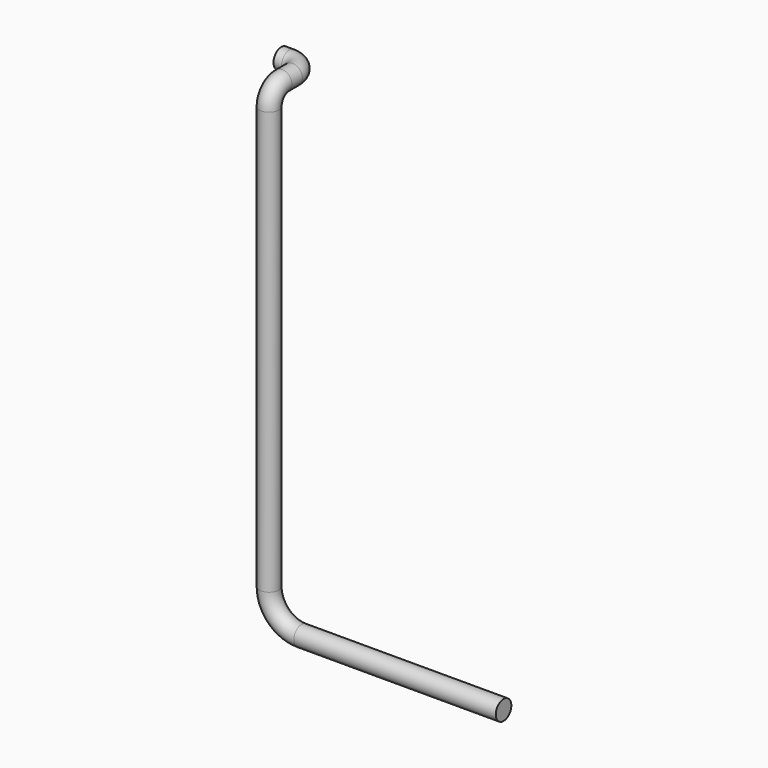
from build123d import *

# Parameters (mm, degrees)
F5_R = 6


with BuildPart() as f6:
    # F6: sweep along a path in F0, F4, F2
    with BuildLine(Plane.XY) as f6_path:
        Line((0, 0), (5, 0))
        ThreePointArc((5, 0), (12.0710678119, -2.9289321881), (15, -10))
        Line((15, -10), (15, -18.124))
    with BuildLine(Plane.YZ.offset(15)) as f6_path_2:
        ThreePointArc((-18.124, 0), (-25.1950678119, -2.9289321881), (-28.124, -10))
        Line((-28.124, -10), (-28.124, -20))
    with BuildLine(Plane.XZ.offset(28.124)) as f6_path_3:
        Line((15, -20), (15, -270.5))
        ThreePointArc((15, -270.5), (20.8578643763, -284.6421356237), (35, -290.5))
        Line((35, -290.5), (159.5, -290.5))
    # F5 (on Right) → F6 (sweep)
    with BuildSketch(Plane.YZ):
        Circle(F5_R)
    sweep(path=f6_path.line + f6_path_2.line + f6_path_3.line)


solid = f6.part
